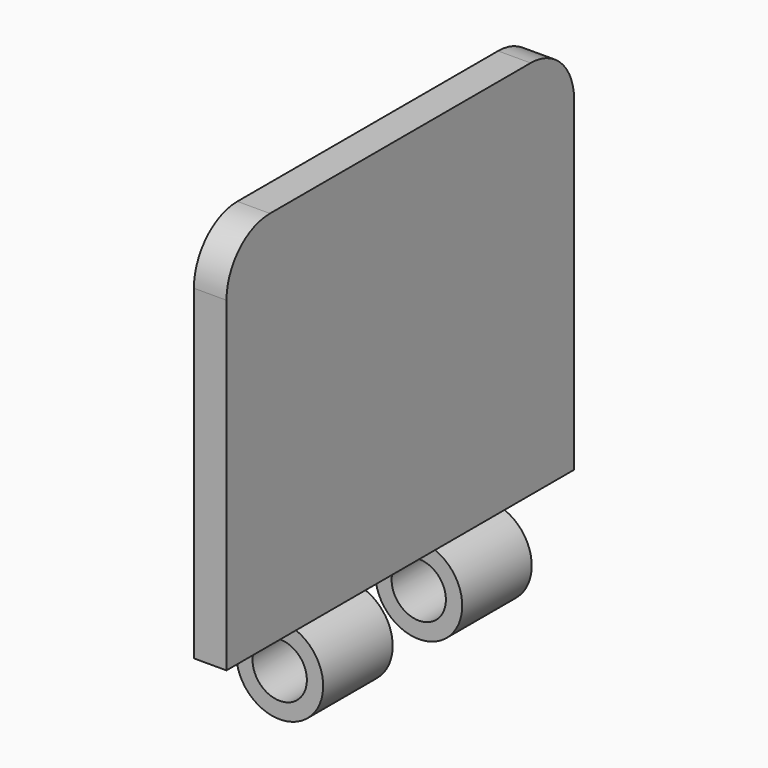
from build123d import *

# Parameters (mm, degrees)
F1_DEPTH = 50.8
F2_R     = 12.7
F3_R     = 6.35
F4_DEPTH = 101.601
F5_W     = 20.32
F5_H     = 38.1
F6_DEPTH = 88.9


with BuildPart() as f1:
    # F0 (on Front) → F1 (new body, symmetric)
    with BuildSketch(Plane.XZ):
        with BuildLine():
            Line((-3.81, 98.3185720786), (-3.81, 9.4185720786))
            ThreePointArc((-3.81, 9.4185720786), (0, -10.16), (3.81, 9.4185720786))
            Line((3.81, 9.4185720786), (3.81, 98.3185720786))
            Line((3.81, 98.3185720786), (-3.81, 98.3185720786))
        make_face()
    extrude(amount=F1_DEPTH, both=True)

    # F2
    f2_edges = [f1.edges().sort_by_distance(p)[0] for p in [
        (0, -50.8, 98.318572),
        (0, 50.8, 98.318572),
    ]]
    fillet(f2_edges, radius=F2_R)

    # F3 (on face) → F4 (cut, through all)
    with BuildSketch(Plane(origin=(0, 50.8, 0), x_dir=(-1, 0, 0), z_dir=(0, 1, 0))):
        Circle(F3_R)
    extrude(amount=-F4_DEPTH, mode=Mode.SUBTRACT)

    # F5 (on face) → F6 (cut, symmetric)
    with BuildSketch(Plane(origin=(-3.81, 0, 0), x_dir=(0, -1, 0), z_dir=(-1, 0, 0))):
        with Locations((40.64, -9.6314279214)):
            Rectangle(F5_W, F5_H)
        Polygon((10.16, 9.4185720786), (-10.16, 9.4185720786), (-10.16, -20.9424663335), (-10.16, -22.940389812), (10.16, -22.940389812), align=None)
        Polygon((-30.48, 9.4185720786), (-50.8, 9.4185720786), (-50.8, -9.6314279214), (-50.8, -22.1083164215), (-30.48, -22.1083164215), align=None)
    extrude(amount=F6_DEPTH, both=True, mode=Mode.SUBTRACT)


solid = f1.part
